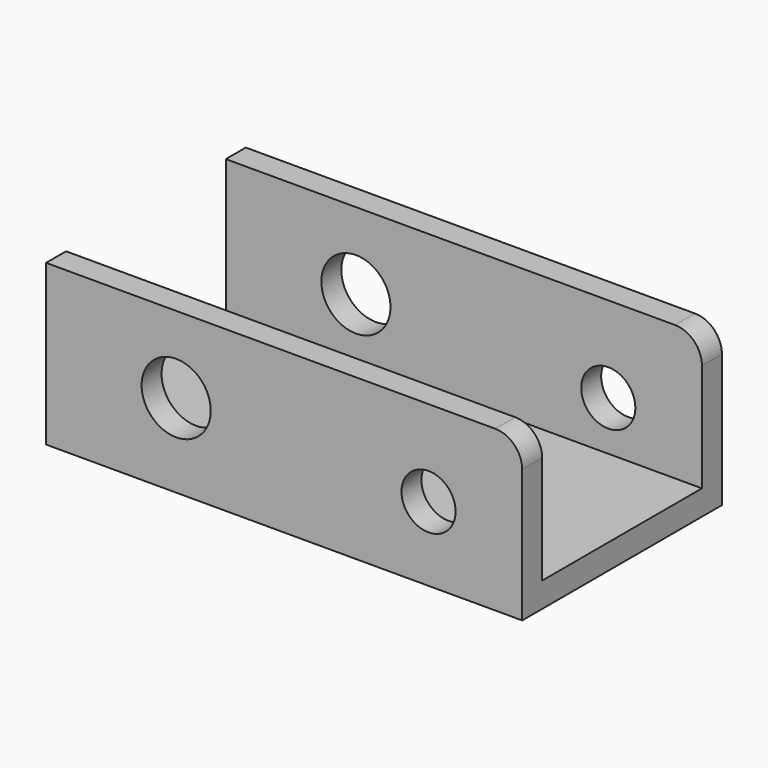
from build123d import *

# Parameters (mm, degrees)
F1_DEPTH = 25.4
F2_T     = -2.54
F3_R     = 2.754178
F3_R_2   = 3.516822
F4_DEPTH = 59.182


with BuildPart() as f1:
    # F0 (on Front) → F1 (new body)
    with BuildSketch(Plane.XZ):
        with BuildLine():
            Line((-66.046305, 23.096353), (-66.046305, 6.816403))
            Line((-66.046305, 6.816403), (-17.603524, 6.816403))
            Line((-17.603524, 6.816403), (-17.603524, 20.350474))
            ThreePointArc((-17.603524, 20.350474), (-18.407773, 22.292103), (-20.349403, 23.096353))
            Line((-20.349403, 23.096353), (-64.987443, 23.096353))
            Line((-64.987443, 23.096353), (-66.046305, 23.096353))
        make_face()
    extrude(amount=F1_DEPTH)

    # F2
    f2_openings = [f1.faces().sort_by_distance(p)[0] for p in [
        (-43.197854, -12.7, 23.096353),
        (-17.603524, -12.7, 13.583438),
        (-18.407773, -12.7, 22.292103),
        (-66.046305, -12.7, 14.956378),
    ]]
    offset(amount=F2_T, openings=f2_openings)

    # F3 (on Front) + F1_face (on face) → F4 (cut)
    with BuildSketch(Plane.XZ):
        with Locations((-27.133251, 14.36077)):
            Circle(F3_R)
        with Locations((-52.810572, 15.287271)):
            Circle(F3_R_2)
    with BuildSketch(Plane(origin=(-41.873451, -25.4, 14.940904), x_dir=(1, 0, 0), z_dir=(0, -1, 0))):
        with BuildLine():
            Line((-24.172854, 8.155449), (-24.172854, -8.124501))
            Line((-24.172854, -8.124501), (24.269927, -8.124501))
            Line((24.269927, -8.124501), (24.269927, 5.40957))
            ThreePointArc((24.269927, 5.40957), (23.465677, 7.3512), (21.524048, 8.155449))
            Line((21.524048, 8.155449), (-24.172854, 8.155449))
        make_face()
    extrude(amount=F4_DEPTH, mode=Mode.SUBTRACT)


solid = f1.part
